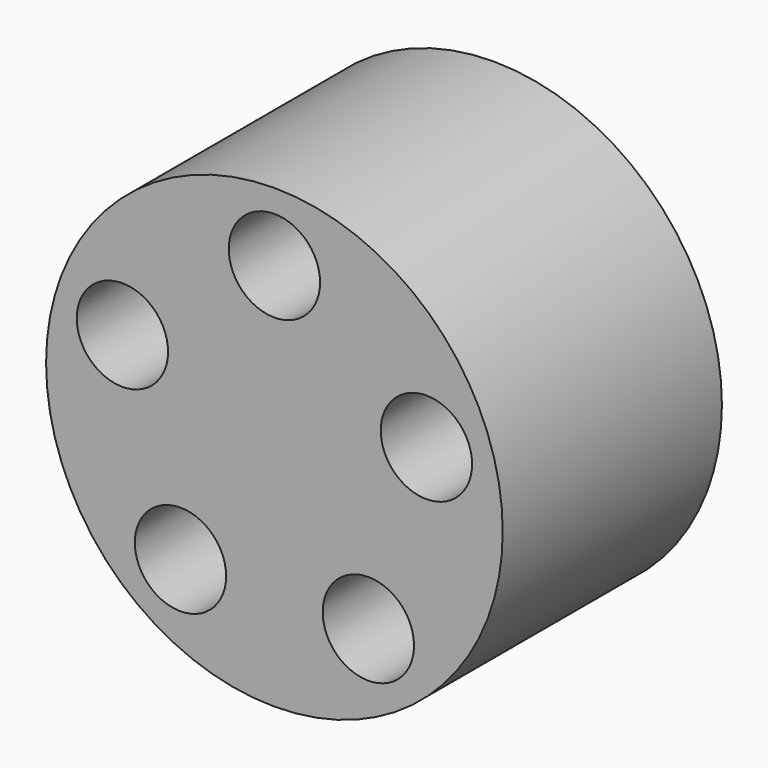
from build123d import *

# Parameters (mm, degrees)
F0_R     = 63.5
F0_R_2   = 12.7
F1_DEPTH = 76.2


with BuildPart() as f1:
    # F0 (on Front) → F1 (new body)
    with BuildSketch(Plane.XZ):
        Circle(F0_R)
        with Locations((-26.127054, -35.960805)):
            Circle(F0_R_2, mode=Mode.SUBTRACT)
        with Locations((26.127054, -35.960805)):
            Circle(F0_R_2, mode=Mode.SUBTRACT)
        with Locations((-42.274462, 13.735805)):
            Circle(F0_R_2, mode=Mode.SUBTRACT)
        with Locations((42.274462, 13.735805)):
            Circle(F0_R_2, mode=Mode.SUBTRACT)
        with Locations((0, 44.45)):
            Circle(F0_R_2, mode=Mode.SUBTRACT)
    extrude(amount=F1_DEPTH)


solid = f1.part
